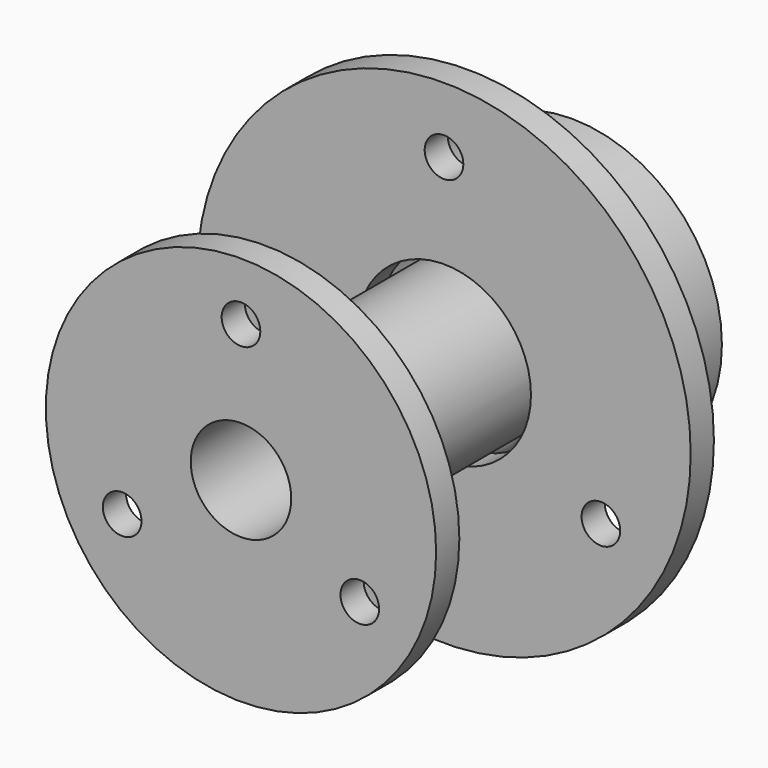
from build123d import *

# Parameters (mm, degrees)
SKETCH001_R           = 1.75
POCKET_DEPTH          = 79.845677
POLARPATTERN_COUNT    = 3
SKETCH002_R           = 1
POCKET001_DEPTH       = 5
POLARPATTERN001_COUNT = 3
SKETCH004_R           = 1
POCKET002_DEPTH       = 95.495074
POLARPATTERN002_COUNT = 3
SKETCH006_R           = 1.75
PAD_DEPTH             = 1.7
FILLET_R              = 1.65
SKETCH009_R           = 0.5


with BuildPart() as kugelaufnahme:
    # Sketch → Revolution (revolve)
    with BuildSketch(Plane.XY):
        with BuildLine():
            Line((0, 20), (4.1, 20))
            Line((4.1, 20), (4.1, 18.3))
            ThreePointArc((4.1, 18.3), (3.6, 17.8), (4.1, 17.3))
            Line((4.1, 17.3), (4.1, 1.5))
            Line((4.1, 1.5), (10.1, 1.5))
            Line((10.1, 1.5), (10.1, 0))
            Line((10.1, 0), (2.6, 0))
            Line((2.6, 0), (2.6, 18.5))
            Line((2.6, 18.5), (0, 18.5))
            Line((0, 20), (0, 18.5))
        make_face()
    revolve(axis=Axis((0, 0, 0), (0, 1, 0)))

    # Sketch001 → Pocket (cut, through all)
    with BuildSketch(Plane.XY):
        with Locations((0, 15.9)):
            Circle(SKETCH001_R)
    pocket = extrude(amount=-POCKET_DEPTH, mode=Mode.SUBTRACT)

    # PolarPattern: Pocket ×3 about axis
    polarpattern_axis = Axis((0, 0, 0), (0, 1, 0))
    for i in range(1, POLARPATTERN_COUNT):
        add(pocket.rotate(polarpattern_axis, i * 360 / POLARPATTERN_COUNT), mode=Mode.SUBTRACT)

    # Sketch002 → Pocket001 (cut)
    with BuildSketch(Plane.XZ):
        with Locations((0, 7.1)):
            Circle(SKETCH002_R)
    pocket001 = extrude(amount=-POCKET001_DEPTH, mode=Mode.SUBTRACT)

    # PolarPattern001: Pocket001 ×3 about axis
    polarpattern001_axis = Axis((0, 0, 0), (0, -1, 0))
    for i in range(1, POLARPATTERN001_COUNT):
        add(pocket001.rotate(polarpattern001_axis, i * 360 / POLARPATTERN001_COUNT), mode=Mode.SUBTRACT)


with BuildPart() as obj1:
    # Sketch003 → Revolution001 (revolve)
    with BuildSketch(Plane.XY):
        Polygon((4.5, 14.632233), (4.5, 13.132233), (12.767767, 13.132233), (12.767767, 14.632233), (7.767767, 14.632233), (7.767767, 21.4), (6.267767, 21.4), (6.267767, 16.4), align=None)
    revolve(axis=Axis((0, 0, 0), (0, 1, 0)))

    # Sketch004 → Pocket002 (cut, through all)
    with BuildSketch(Plane.XZ):
        with Locations((0, 9.375)):
            Circle(SKETCH004_R)
    pocket002 = extrude(amount=-POCKET002_DEPTH, mode=Mode.SUBTRACT)

    # PolarPattern002: Pocket002 ×3 about axis
    polarpattern002_axis = Axis((0, 0, 0), (0, -1, 0))
    for i in range(1, POLARPATTERN002_COUNT):
        add(pocket002.rotate(polarpattern002_axis, i * 360 / POLARPATTERN002_COUNT), mode=Mode.SUBTRACT)


with BuildPart() as kugel:
    # Sketch005 → Revolution002 (revolve)
    with BuildSketch(Plane.YZ):
        with BuildLine():
            ThreePointArc((11, 0), (13.5, -2.5), (16, 0))
            Line((11, 0), (16, 0))
        make_face()
    revolve(axis=Axis((0, 0, 0), (0, 1, 0)))


with BuildPart() as obj2:
    # Sketch006 → Pad (new body, symmetric)
    with BuildSketch(Plane.YZ):
        with Locations((15.9, -3.507492)):
            Circle(SKETCH006_R)
    extrude(amount=PAD_DEPTH, both=True)

    # Fillet
    fillet_edges = [obj2.edges().sort_by_distance(p)[0] for p in [
        (-1.7, 14.15, -3.507492),
        (1.7, 14.15, -3.507492),
    ]]
    fillet(fillet_edges, radius=FILLET_R)


with BuildPart() as oring:
    # Sketch009 → Revolution003 (revolve)
    with BuildSketch(Plane.XY):
        with Locations((4.1, 17.8)):
            Circle(SKETCH009_R)
    revolve(axis=Axis((0, 0, 0), (0, 1, 0)))


solid = Compound([kugelaufnahme.part, obj1.part, kugel.part, obj2.part, oring.part])
